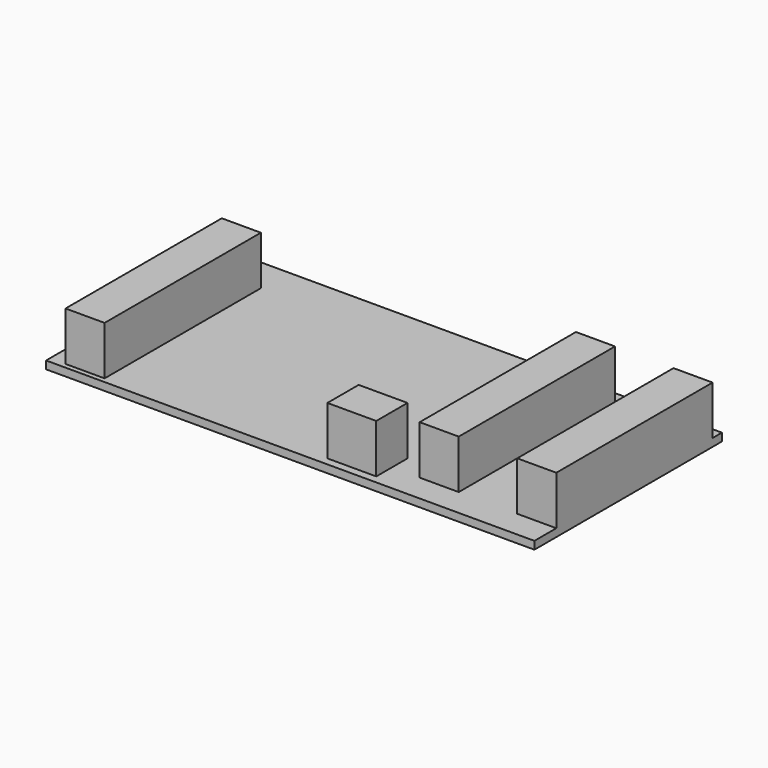
from build123d import *

# Parameters (mm, degrees)
F0_W     = 100
F0_H     = 1.6
F1_DEPTH = 24
F2_W     = 8
F2_H     = 40
F3_DEPTH = 10
F4_W     = 8
F4_H     = 40
F5_DEPTH = 10
F6_W     = 8
F6_H     = 40
F7_DEPTH = 10
F8_W     = 10
F8_H     = 8
F9_DEPTH = 10


with BuildPart() as f1:
    # F0 (on Front) → F1 (new body, symmetric)
    with BuildSketch(Plane.XZ):
        Rectangle(F0_W, F0_H)
    extrude(amount=F1_DEPTH, both=True)

    # F2 (on face) → F3 (join)
    with BuildSketch(Plane.XY.offset(0.8)):
        with Locations((-42.821201, -2.99572)):
            Rectangle(F2_W, F2_H)
    extrude(amount=F3_DEPTH)

    # F4 (on face) → F5 (join)
    with BuildSketch(Plane.XY.offset(0.8)):
        with Locations((46, 1.605854)):
            Rectangle(F4_W, F4_H)
    extrude(amount=F5_DEPTH)

    # F6 (on face) → F7 (join)
    with BuildSketch(Plane.XY.offset(0.8)):
        with Locations((26, 1.631008)):
            Rectangle(F6_W, F6_H)
    extrude(amount=F7_DEPTH)

    # F8 (on face) → F9 (join)
    with BuildSketch(Plane.XY.offset(0.8)):
        with Locations((11.315175, -18.378249)):
            Rectangle(F8_W, F8_H)
    extrude(amount=F9_DEPTH)


solid = f1.part
